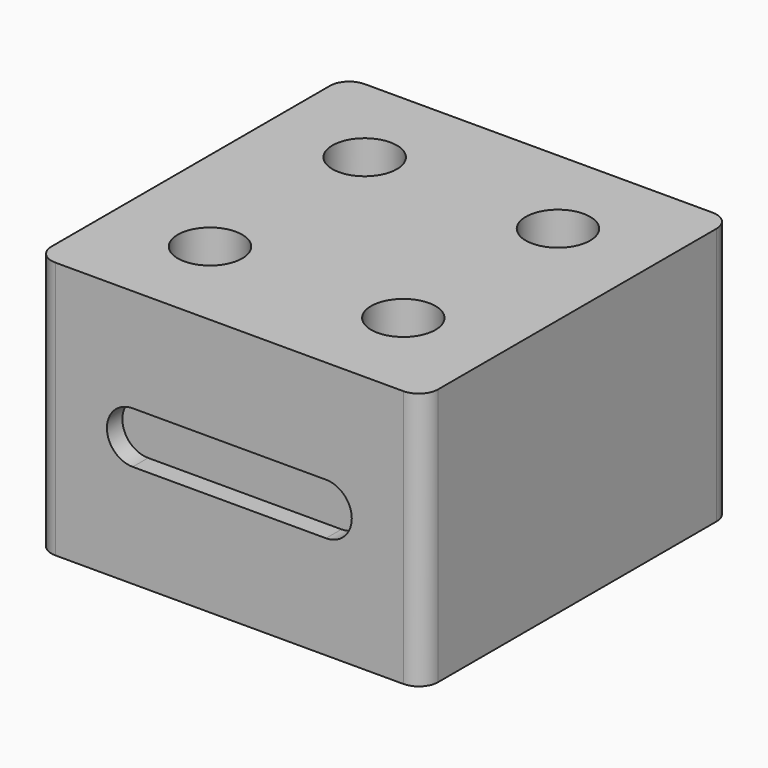
from build123d import *

# Parameters (mm, degrees)
SKETCH_W     = 60
SKETCH_H     = 60
SKETCH_R     = 5
PAD_DEPTH    = 40
POCKET_DEPTH = 3
FILLET_R     = 3


with BuildPart() as part:
    # Sketch → Pad (new body)
    with BuildSketch(Plane.XY):
        Rectangle(SKETCH_W, SKETCH_H)
        with Locations((-15, 15)):
            Circle(SKETCH_R, mode=Mode.SUBTRACT)
        with Locations((15, 15)):
            Circle(SKETCH_R, mode=Mode.SUBTRACT)
        with Locations((-15, -15)):
            Circle(SKETCH_R, mode=Mode.SUBTRACT)
        with Locations((15, -15)):
            Circle(SKETCH_R, mode=Mode.SUBTRACT)
    extrude(amount=PAD_DEPTH)

    # Sketch001 (on Face2 of Pad) → Pocket (cut)
    with BuildSketch(Plane.XZ.offset(30)):
        with BuildLine():
            ThreePointArc((-15, 24), (-19, 20), (-15, 16))
            Line((-15, 16), (15, 16))
            ThreePointArc((15, 16), (19, 20), (15, 24))
            Line((-15, 24), (15, 24))
        make_face()
    extrude(amount=-POCKET_DEPTH, mode=Mode.SUBTRACT)

    # Fillet
    fillet_edges = [part.edges().sort_by_distance(p)[0] for p in [
        (30, -30, 20),
        (30, 30, 20),
        (-30, -30, 20),
        (-30, 30, 20),
    ]]
    fillet(fillet_edges, radius=FILLET_R)


solid = part.part
